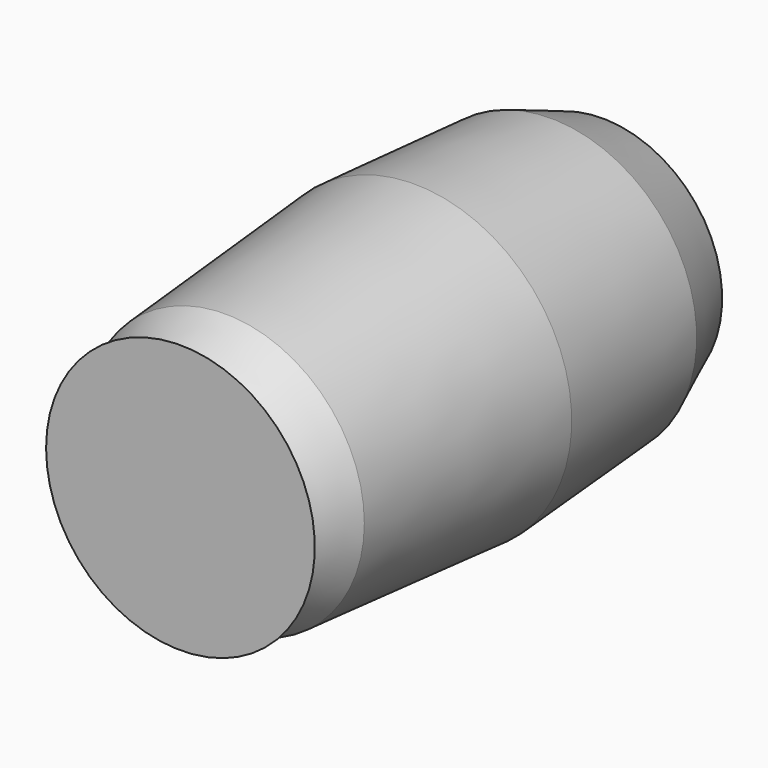
from build123d import *


with BuildPart() as f1:
    # F0 (on Top) → F1 (revolve)
    with BuildSketch(Plane.XY):
        Polygon((-35.776304, 0), (-36.933769, 75.909209), (-44.964721, 56.045479), (-48.573417, 3.330279), (-42.94187, -69.63447), (-35.811934, -83.732468), (-34.217477, -86.885184), (-34.462093, -73.250912), align=None)
        with BuildLine():
            ThreePointArc((0, -82.816032), (-18.678295, -83.247751), (-34.462093, -73.250912))
            Line((-34.462093, -73.250912), (-34.217477, -86.885184))
            Line((-34.217477, -86.885184), (0, -86.885184))
            Line((0, -86.885184), (0, -82.816032))
        make_face()
        with BuildLine():
            Line((-41.46794, -86.885184), (-34.217477, -86.885184))
            Line((-34.217477, -86.885184), (-35.811934, -83.732468))
            ThreePointArc((-35.811934, -83.732468), (-38.230271, -86.043772), (-41.46794, -86.885184))
        make_face()
    revolve(axis=Axis((0, -39.467172, 0), (0, 1, 0)))


solid = f1.part
